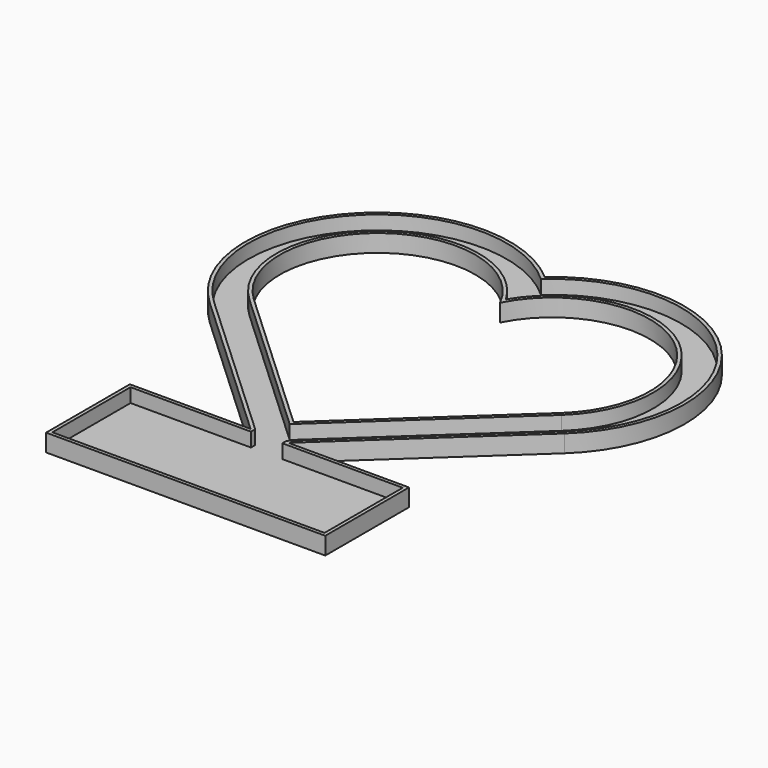
from build123d import *

# Parameters (mm, degrees)
PAD_DEPTH       = 10
POCKET_DEPTH    = 8
PAD001_DEPTH    = 10
POCKET001_DEPTH = 10.001
SKETCH004_W     = 160
SKETCH004_H     = 60
PAD002_DEPTH    = 10
SKETCH005_W     = 156
SKETCH005_H     = 56
POCKET002_DEPTH = 8
SKETCH006_W     = 18
SKETCH006_H     = 12
POCKET003_DEPTH = 8


with BuildPart() as part:
    # Sketch001 → Pad (new body)
    with BuildSketch(Plane.XY):
        with BuildLine():
            ThreePointArc((0, 57.236352), (-106.486482, 50.845622), (-101.68, -55.72412))
            Line((-101.68, -55.72412), (0, -150.0248))
            Line((0, -150.0248), (101.68, -55.72412))
            ThreePointArc((101.68, -55.72412), (106.486482, 50.845622), (0, 57.236352))
        make_face()
    extrude(amount=PAD_DEPTH)

    # Sketch002 → Pocket (cut)
    with BuildSketch(Plane.XY.offset(10)):
        with BuildLine():
            ThreePointArc((0, 54.552727), (-104.405447, 50.160217), (-100.32, -54.257696))
            Line((-100.32, -54.257696), (0, -147.297076))
            Line((0, -147.297076), (100.32, -54.257696))
            ThreePointArc((100.32, -54.257696), (104.405447, 50.160217), (0, 54.552727))
        make_face()
    extrude(amount=-POCKET_DEPTH, mode=Mode.SUBTRACT)

    # Sketch003 → Pad001 (join)
    with BuildSketch(Plane.XY):
        with BuildLine():
            ThreePointArc((0, 29.393877), (-86.345652, 45.199486), (-89.44, -42.526302))
            Line((-89.44, -42.526302), (0, -125.475287))
            Line((0, -125.475287), (89.44, -42.526302))
            ThreePointArc((89.44, -42.526302), (86.345652, 45.199486), (0, 29.393877))
        make_face()
    extrude(amount=PAD001_DEPTH)

    # Sketch → Pocket001 (cut, through all)
    with BuildSketch(Plane.XY.offset(10)):
        with BuildLine():
            ThreePointArc((0, 25.21904), (-83.671135, 44.74656), (-88.08, -41.059878))
            Line((-88.08, -41.059878), (0, -122.747563))
            Line((0, -122.747563), (88.08, -41.059878))
            ThreePointArc((88.08, -41.059878), (83.671135, 44.74656), (0, 25.21904))
        make_face()
    extrude(amount=-POCKET001_DEPTH, mode=Mode.SUBTRACT)

    # Sketch004 → Pad002 (join)
    with BuildSketch(Plane.XY):
        with Locations((0, -170)):
            Rectangle(SKETCH004_W, SKETCH004_H)
    extrude(amount=PAD002_DEPTH)

    # Sketch005 → Pocket002 (cut)
    with BuildSketch(Plane.XY.offset(10)):
        with Locations((0, -170)):
            Rectangle(SKETCH005_W, SKETCH005_H)
    extrude(amount=-POCKET002_DEPTH, mode=Mode.SUBTRACT)

    # Sketch006 → Pocket003 (cut)
    with BuildSketch(Plane.XY.offset(10)):
        with Locations((0, -140.2931)):
            Rectangle(SKETCH006_W, SKETCH006_H)
    extrude(amount=-POCKET003_DEPTH, mode=Mode.SUBTRACT)


solid = part.part
